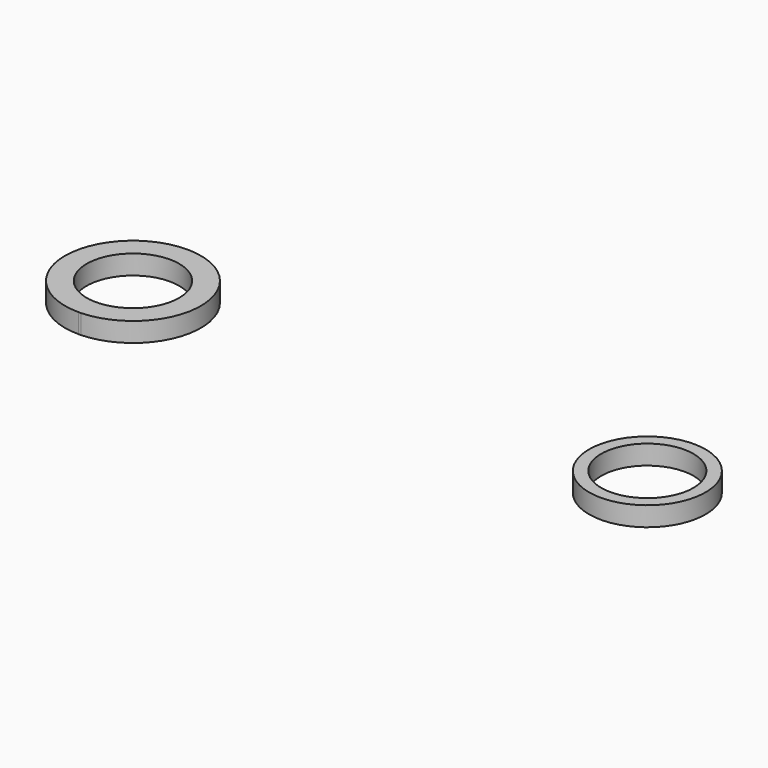
from build123d import *

# Parameters (mm, degrees)
F0_R     = 30.2514
F1_DEPTH = 12.7
F0_R_2   = 30.1752


with BuildPart() as f1:
    # F0 (on Top) → F1 (new body)
    with BuildSketch(Plane.XY):
        with BuildLine():
            Line((-118.41477949, 44.4184303559), (-120.0897555246, 44.45))
            ThreePointArc((-120.0897555246, 44.45), (-164.5397555246, 0), (-120.0897555246, -44.45))
            Line((-120.0897555246, -44.45), (-118.41477949, -44.4184303559))
            ThreePointArc((-118.41477949, -44.4184303559), (-88.0721417414, -30.8330165185), (-75.6397555246, 0))
            ThreePointArc((-75.6397555246, 0), (-88.0721417414, 30.8330165185), (-118.41477949, 44.4184303559))
        make_face()
        with Locations((-120.0897555246, 0)):
            Circle(F0_R, mode=Mode.SUBTRACT)
        with BuildLine():
            Line((-118.41477949, 44.4184303559), (-120.0897555246, 44.45))
            ThreePointArc((-120.0897555246, 44.45), (-164.5397555246, 0), (-120.0897555246, -44.45))
            Line((-120.0897555246, -44.45), (-118.41477949, -44.4184303559))
            ThreePointArc((-118.41477949, -44.4184303559), (-88.0721417414, -30.8330165185), (-75.6397555246, 0))
            ThreePointArc((-75.6397555246, 0), (-88.0721417414, 30.8330165185), (-118.41477949, 44.4184303559))
        make_face()
        with Locations((-120.0897555246, 0)):
            Circle(F0_R, mode=Mode.SUBTRACT)
    extrude(amount=F1_DEPTH)


with BuildPart() as f1b:
    # F0 (on Top) → F1, piece 2 (new body)
    with BuildSketch(Plane.XY):
        with BuildLine():
            ThreePointArc((254.5602444754, 0), (216.4602444754, 38.1), (178.3602444754, 0))
            ThreePointArc((178.3602444754, 0), (216.4602444754, -38.1), (254.5602444754, 0))
        make_face()
        with Locations((216.4602444754, 0)):
            Circle(F0_R_2, mode=Mode.SUBTRACT)
    extrude(amount=F1_DEPTH)


solid = Compound([f1.part, f1b.part])
